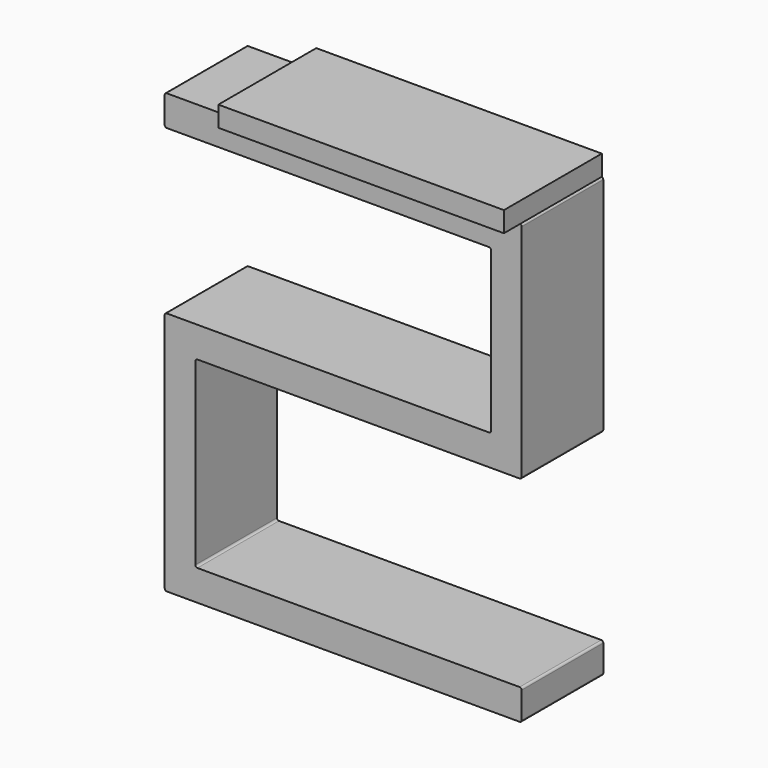
from build123d import *

# Parameters (mm, degrees)
F1_DEPTH = 10
F2_R     = 0.2
F3_R     = 0.2
F4_W     = 28
F4_H     = 2
F5_DEPTH = 25
F6_DEPTH = 13
F7_DEPTH = 12
F8_DEPTH = 1


with BuildPart() as f1:
    # F0 (on Front) → F1 (new body)
    with BuildSketch(Plane.XZ):
        Polygon((35, 0), (0, 0), (0, -3), (32, -3), (32, -18.9999993891), (0, -18.9999993891), (0, -43), (35, -43), (35, -39.9999991059), (3, -39.9999991059), (3, -21.9999998808), (35, -21.9999998808), align=None)
    extrude(amount=F1_DEPTH)

    # F2
    f2_edges = [f1.edges().sort_by_distance(p)[0] for p in [
        (35, -5, 0),
        (32, -5, -3),
        (35, -5, -22),
        (32, -5, -18.999999),
    ]]
    fillet(f2_edges, radius=F2_R)

    # F3
    f3_edges = [f1.edges().sort_by_distance(p)[0] for p in [
        (3, -5, -39.999999),
        (35, -5, -39.999999),
        (35, -5, -43),
        (0, -5, -43),
        (3, -5, -22),
        (0, -5, -18.999999),
        (0, -5, 0),
        (0, -5, -3),
    ]]
    fillet(f3_edges, radius=F3_R)

    # F4 (on Front) → F5 (join)
    with BuildSketch(Plane.XZ):
        with Locations((20.8566440605, 1)):
            Rectangle(F4_W, F4_H)
    extrude(amount=F5_DEPTH)

    # F6 (add): a face of the model
    f6_faces = [f1.faces().sort_by_distance(p)[0] for p in [
        (20.8566440605, -25, 1),
    ]]
    extrude(f6_faces, amount=-F6_DEPTH)

    # F7 (cut): a face of the model
    f7_faces = [f1.faces().sort_by_distance(p)[0] for p in [
        (20.8566440605, -25, 1),
    ]]
    extrude(f7_faces, amount=-F7_DEPTH, mode=Mode.SUBTRACT)

    # F8 (cut): a face of the model
    f8_faces = [f1.faces().sort_by_distance(p)[0] for p in [
        (20.8566440605, -13, 1),
    ]]
    extrude(f8_faces, amount=-F8_DEPTH, mode=Mode.SUBTRACT)


solid = f1.part
